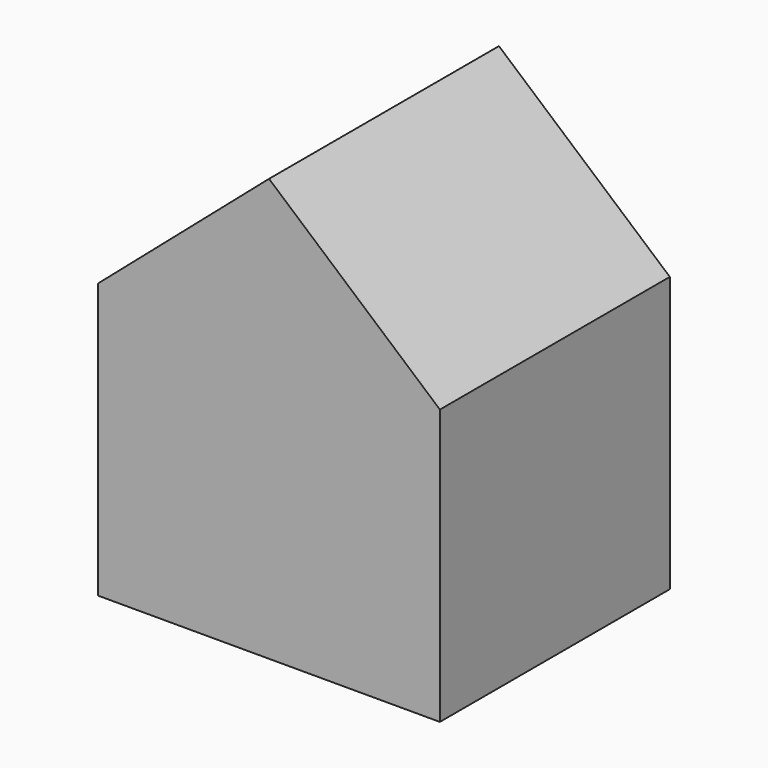
from build123d import *

# Parameters (mm, degrees)
F0_W     = 18.4947745875
F0_H     = 21.1751759052
F0_H_2   = 7.2370842099
F1_DEPTH = 38.1


with BuildPart() as f1:
    # F0 (on Front) → F1 (new body, symmetric)
    with BuildSketch(Plane.XZ):
        Polygon((0, 75.5873396993), (-45.2987961471, 36.4534668624), (-9.3814069405, 36.4534668624), (-9.3814069405, 57.6286427677), (9.1133676469, 57.6286427677), (9.1133676469, 36.4534668624), (45.2987961471, 36.4534668624), align=None)
        Polygon((-9.3814069405, 36.4534668624), (-45.2987961471, 36.4534668624), (-45.2987961471, -36.4534668624), (45.2987961471, -36.4534668624), (45.2987961471, 36.4534668624), (9.1133676469, 36.4534668624), (9.1133676469, 29.2163826525), (-9.3814069405, 29.2163826525), align=None)
        with Locations((-0.1340196468, 47.0410548151)):
            Rectangle(F0_W, F0_H)
        with Locations((-0.1340196468, 32.8349247575)):
            Rectangle(F0_W, F0_H_2)
    extrude(amount=F1_DEPTH, both=True)


solid = f1.part
